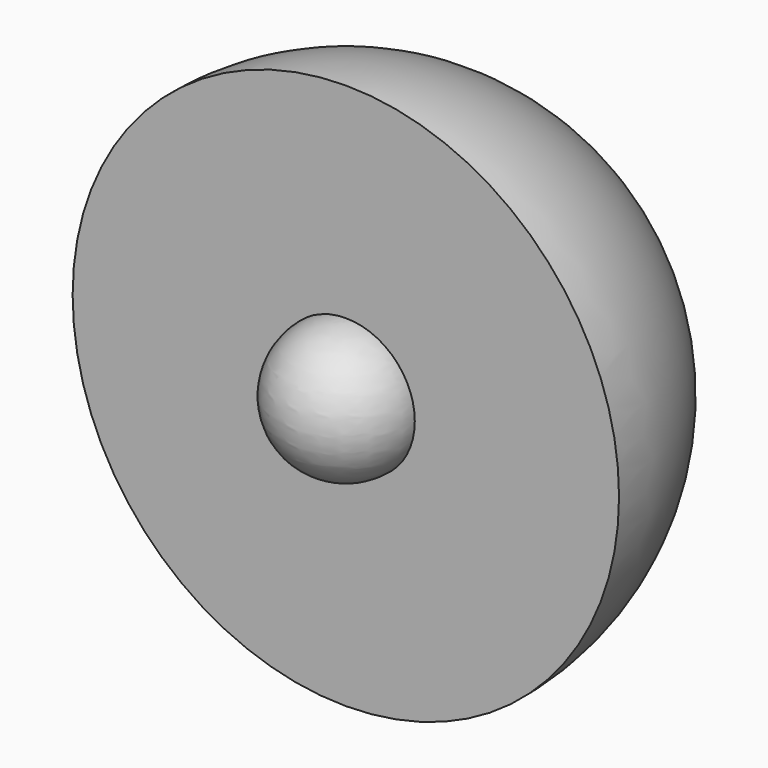
from build123d import *

# Parameters (mm, degrees)
F1_ANGLE = 180


with BuildPart() as f1:
    # F0 (on Front) → F1 (revolve)
    with BuildSketch(Plane.XZ):
        with BuildLine():
            Line((0, 40), (0, 0))
            ThreePointArc((0, 0), (20, 20), (0, 40))
        make_face()
    revolve(axis=Axis((0, 0, 20), (0, 0, 1)), revolution_arc=F1_ANGLE)


with BuildPart() as f3:
    # F2 (on face) → F3 (revolve)
    with BuildSketch(Plane.XZ):
        with BuildLine():
            Line((0, 24.999555), (0, 15))
            ThreePointArc((0, 15), (5.047165, 19.999778), (0, 24.999555))
        make_face()
    revolve(axis=Axis((0, 0, 19.999778), (0, 0, 1)))


solid = Compound([f1.part, f3.part])
